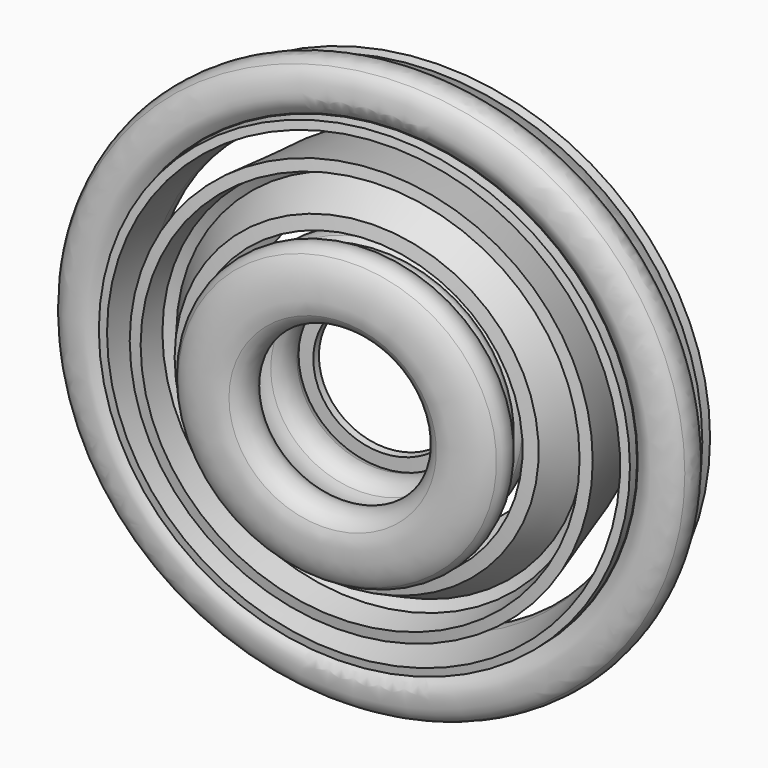
from build123d import *


with BuildPart() as f2:
    # F1 (on face) → F2 (revolve)
    with BuildSketch(Plane.XY):
        with BuildLine():
            Line((-32.5457147943, 22.5321445226), (-32.4359629158, 22.5321445226))
            Line((-32.4359629158, 22.5321445226), (-31.983785176, 20.3897878528))
            Line((-31.983785176, 20.3897878528), (-30.2936062459, 20.3897878528))
            Line((-30.2936062459, 20.3897878528), (-30.2936062459, 30.6537835374))
            add(Edge.make_bspline(
                [(-31.5908734507, 34.4797340246), (-30.2936062459, 33.2878286232), (-30.2936062459, 30.6537835374)],
                knots=[0, 0, 0, 1, 1, 1], degree=2))
            add(Edge.make_bspline(
                [(-35.5748666431, 35.671639426), (-32.8881406555, 35.671639426), (-31.5908734507, 34.4797340246)],
                knots=[0, 0, 0, 1, 1, 1], degree=2))
            add(Edge.make_bspline(
                [(-38.2330571423, 35.3292135648), (-36.9094494866, 35.671639426), (-35.5748666431, 35.671639426)],
                knots=[0, 0, 0, 1, 1, 1], degree=2))
            add(Edge.make_bspline(
                [(-40.6673538091, 34.385347409), (-39.5566647979, 34.9867877036), (-38.2330571423, 35.3292135648)],
                knots=[0, 0, 0, 1, 1, 1], degree=2))
            Line((-40.6673538091, 34.385347409), (-39.9649417862, 32.6424875772))
            add(Edge.make_bspline(
                [(-35.7153490477, 33.7926872647), (-37.5943012089, 33.7926872647), (-39.9649417862, 32.6424875772)],
                knots=[0, 0, 0, 1, 1, 1], degree=2))
            add(Edge.make_bspline(
                [(-33.2788573432, 32.9497928372), (-34.038340343, 33.7926872647), (-35.7153490477, 33.7926872647)],
                knots=[0, 0, 0, 1, 1, 1], degree=2))
            add(Edge.make_bspline(
                [(-32.5193743435, 30.3376981271), (-32.5193743435, 32.1068984097), (-33.2788573432, 32.9497928372)],
                knots=[0, 0, 0, 1, 1, 1], degree=2))
            Line((-32.5193743435, 30.3376981271), (-32.5193743435, 29.4026121216))
            Line((-32.5193743435, 29.4026121216), (-35.0700080016, 29.3192006939))
            add(Edge.make_bspline(
                [(-42.3531426641, 24.5471890133), (-42.3531426641, 29.0996969367), (-35.0700080016, 29.3192006939)],
                knots=[0, 0, 0, 1, 1, 1], degree=2))
            add(Edge.make_bspline(
                [(-41.0844109477, 21.2678028814), (-42.3531426641, 22.422392644), (-42.3531426641, 24.5471890133)],
                knots=[0, 0, 0, 1, 1, 1], degree=2))
            add(Edge.make_bspline(
                [(-37.5811309835, 20.1132131187), (-39.8156792313, 20.1132131187), (-41.0844109477, 21.2678028814)],
                knots=[0, 0, 0, 1, 1, 1], degree=2))
            add(Edge.make_bspline(
                [(-34.7868481549, 20.6158767226), (-35.9041222788, 20.1132131187), (-37.5811309835, 20.1132131187)],
                knots=[0, 0, 0, 1, 1, 1], degree=2))
            add(Edge.make_bspline(
                [(-32.5457147943, 22.5321445226), (-33.669574031, 21.1185403265), (-34.7868481549, 20.6158767226)],
                knots=[0, 0, 0, 1, 1, 1], degree=2))
        make_face()
        with BuildLine():
            add(Edge.make_bspline(
                [(-37.1289532438, 21.9965553551), (-34.9997667993, 21.9965553551), (-33.7859110223, 23.1621203056)],
                knots=[0, 0, 0, 1, 1, 1], degree=2))
            add(Edge.make_bspline(
                [(-39.2186290119, 22.6397013636), (-38.4723162376, 21.9965553551), (-37.1289532438, 21.9965553551)],
                knots=[0, 0, 0, 1, 1, 1], degree=2))
            add(Edge.make_bspline(
                [(-39.9649417862, 24.5208485624), (-39.9649417862, 23.2828473721), (-39.2186290119, 22.6397013636)],
                knots=[0, 0, 0, 1, 1, 1], degree=2))
            add(Edge.make_bspline(
                [(-38.7664512721, 26.8453933507), (-39.9649417862, 26.0968855388), (-39.9649417862, 24.5208485624)],
                knots=[0, 0, 0, 1, 1, 1], degree=2))
            add(Edge.make_bspline(
                [(-34.8505042445, 27.6904828158), (-37.5679607581, 27.5939011626), (-38.7664512721, 26.8453933507)],
                knots=[0, 0, 0, 1, 1, 1], degree=2))
            Line((-34.8505042445, 27.6904828158), (-32.5720552452, 27.7826743938))
            Line((-32.5720552452, 27.7826743938), (-32.5720552452, 26.4261411745))
            add(Edge.make_bspline(
                [(-33.7859110223, 23.1621203056), (-32.5720552452, 24.3276852561), (-32.5720552452, 26.4261411745)],
                knots=[0, 0, 0, 1, 1, 1], degree=2))
        make_face(mode=Mode.SUBTRACT)
        with BuildLine():
            add(Edge.make_bspline(
                [(-39.2186290119, 22.6397013636), (-38.4723162376, 21.9965553551), (-37.1289532438, 21.9965553551)],
                knots=[0, 0, 0, 1, 1, 1], degree=2))
            add(Edge.make_bspline(
                [(-37.1289532438, 21.9965553551), (-34.9997667993, 21.9965553551), (-33.7859110223, 23.1621203056)],
                knots=[0, 0, 0, 1, 1, 1], degree=2))
            add(Edge.make_bspline(
                [(-33.7859110223, 23.1621203056), (-32.5720552452, 24.3276852561), (-32.5720552452, 26.4261411745)],
                knots=[0, 0, 0, 1, 1, 1], degree=2))
            Line((-32.5720552452, 26.4261411745), (-32.5720552452, 27.7826743938))
            Line((-32.5720552452, 27.7826743938), (-34.8505042445, 27.6904828158))
            add(Edge.make_bspline(
                [(-34.8505042445, 27.6904828158), (-37.5679607581, 27.5939011626), (-38.7664512721, 26.8453933507)],
                knots=[0, 0, 0, 1, 1, 1], degree=2))
            add(Edge.make_bspline(
                [(-38.7664512721, 26.8453933507), (-39.9649417862, 26.0968855388), (-39.9649417862, 24.5208485624)],
                knots=[0, 0, 0, 1, 1, 1], degree=2))
            add(Edge.make_bspline(
                [(-39.9649417862, 24.5208485624), (-39.9649417862, 23.2828473721), (-39.2186290119, 22.6397013636)],
                knots=[0, 0, 0, 1, 1, 1], degree=2))
        make_face()
    revolve(axis=Axis((16.02832973, 31.0878250748, 0), (0.1629705241, -0.9866309382, 0)))


with BuildPart() as f2b:
    # F1 (on face) → F2, piece 2 (revolve)
    with BuildSketch(Plane.XY):
        with BuildLine():
            add(Edge.make_bspline(
                [(-23.3528974447, 28.0855895786), (-22.7646273755, 28.924093931), (-21.5573567111, 30.2806271502)],
                knots=[0, 0, 0, 1, 1, 1], degree=2))
            Line((-23.3528974447, 28.0855895786), (-23.4626493232, 28.0855895786))
            add(Edge.make_bspline(
                [(-23.3528974447, 30.4167194796), (-23.3528974447, 29.6660166302), (-23.4626493232, 28.0855895786)],
                knots=[0, 0, 0, 1, 1, 1], degree=2))
            Line((-23.3528974447, 30.4167194796), (-23.3528974447, 41.7387232737))
            Line((-23.3528974447, 41.7387232737), (-25.6050059931, 41.7387232737))
            Line((-25.6050059931, 41.7387232737), (-25.6050059931, 20.3897878528))
            Line((-25.6050059931, 20.3897878528), (-23.3528974447, 20.3897878528))
            Line((-23.3528974447, 20.3897878528), (-23.3528974447, 26.0134741111))
            Line((-23.3528974447, 26.0134741111), (-21.6407681388, 27.4973195095))
            Line((-21.6407681388, 27.4973195095), (-16.3287772157, 20.3897878528))
            Line((-16.3287772157, 20.3897878528), (-13.5718100258, 20.3897878528))
            Line((-13.5718100258, 20.3897878528), (-20.0910716133, 29.0206755841))
            Line((-20.0910716133, 29.0206755841), (-13.9976473147, 35.4257952179))
            Line((-13.9976473147, 35.4257952179), (-16.7019336028, 35.4257952179))
            Line((-16.7019336028, 35.4257952179), (-21.5573567111, 30.2806271502))
        make_face()
    revolve(axis=Axis((16.02832973, 31.0878250748, 0), (0.1629705241, -0.9866309382, 0)))


with BuildPart() as f2c:
    # F1 (on face) → F2, piece 3 (revolve)
    with BuildSketch(Plane.XY):
        with BuildLine():
            Line((-1.3366706019, 33.6565949353), (1.4466370388, 33.985850571))
            Line((1.4466370388, 33.985850571), (1.4466370388, 35.4257952179))
            Line((1.4466370388, 35.4257952179), (-3.7512119306, 35.4257952179))
            add(Edge.make_bspline(
                [(-5.8803983751, 35.702369952), (-4.6994681616, 35.702369952), (-3.7512119306, 35.4257952179)],
                knots=[0, 0, 0, 1, 1, 1], degree=2))
            add(Edge.make_bspline(
                [(-10.0751151743, 34.3633970333), (-8.5934648135, 35.702369952), (-5.8803983751, 35.702369952)],
                knots=[0, 0, 0, 1, 1, 1], degree=2))
            add(Edge.make_bspline(
                [(-11.5567655351, 30.5572018842), (-11.5567655351, 33.0244241147), (-10.0751151743, 34.3633970333)],
                knots=[0, 0, 0, 1, 1, 1], degree=2))
            add(Edge.make_bspline(
                [(-10.8236229862, 27.9209617608), (-11.5567655351, 29.0733564858), (-11.5567655351, 30.5572018842)],
                knots=[0, 0, 0, 1, 1, 1], degree=2))
            add(Edge.make_bspline(
                [(-8.9227204492, 26.2900488451), (-10.0904804373, 26.7685670357), (-10.8236229862, 27.9209617608)],
                knots=[0, 0, 0, 1, 1, 1], degree=2))
            add(Edge.make_bspline(
                [(-10.3099841945, 25.0959484062), (-9.8709766802, 25.7149490014), (-8.9227204492, 26.2900488451)],
                knots=[0, 0, 0, 1, 1, 1], degree=2))
            add(Edge.make_bspline(
                [(-10.7489917088, 23.6560037592), (-10.7489917088, 24.476947811), (-10.3099841945, 25.0959484062)],
                knots=[0, 0, 0, 1, 1, 1], degree=2))
            add(Edge.make_bspline(
                [(-10.358275021, 22.3784918926), (-10.7489917088, 22.9272512855), (-10.7489917088, 23.6560037592)],
                knots=[0, 0, 0, 1, 1, 1], degree=2))
            add(Edge.make_bspline(
                [(-9.3924584896, 21.5707180663), (-9.9675583333, 21.8297324997), (-10.358275021, 22.3784918926)],
                knots=[0, 0, 0, 1, 1, 1], degree=2))
            add(Edge.make_bspline(
                [(-11.85968072, 20.2119898095), (-10.9816656914, 21.2151219797), (-9.3924584896, 21.5707180663)],
                knots=[0, 0, 0, 1, 1, 1], degree=2))
            add(Edge.make_bspline(
                [(-12.7376957486, 17.8391541946), (-12.7376957486, 19.2088576393), (-11.85968072, 20.2119898095)],
                knots=[0, 0, 0, 1, 1, 1], degree=2))
            add(Edge.make_bspline(
                [(-11.1397083965, 14.7353710684), (-12.7376957486, 15.8328898542), (-12.7376957486, 17.8391541946)],
                knots=[0, 0, 0, 1, 1, 1], degree=2))
            add(Edge.make_bspline(
                [(-6.5915905482, 13.6378522827), (-9.5417210444, 13.6378522827), (-11.1397083965, 14.7353710684)],
                knots=[0, 0, 0, 1, 1, 1], degree=2))
            add(Edge.make_bspline(
                [(-0.7484005328, 14.9482897129), (-2.750274798, 13.6378522827), (-6.5915905482, 13.6378522827)],
                knots=[0, 0, 0, 1, 1, 1], degree=2))
            add(Edge.make_bspline(
                [(1.2534737325, 18.7566798995), (1.2534737325, 16.2587271431), (-0.7484005328, 14.9482897129)],
                knots=[0, 0, 0, 1, 1, 1], degree=2))
            add(Edge.make_bspline(
                [(-0.0547686601, 21.7485161096), (1.2534737325, 20.7190434885), (1.2534737325, 18.7566798995)],
                knots=[0, 0, 0, 1, 1, 1], degree=2))
            add(Edge.make_bspline(
                [(-3.8082829075, 22.7779887306), (-1.3630110528, 22.7779887306), (-0.0547686601, 21.7485161096)],
                knots=[0, 0, 0, 1, 1, 1], degree=2))
            Line((-3.8082829075, 22.7779887306), (-6.4686684442, 22.7779887306))
            add(Edge.make_bspline(
                [(-8.2093332385, 23.0721237652), (-7.7022795595, 22.7779887306), (-6.4686684442, 22.7779887306)],
                knots=[0, 0, 0, 1, 1, 1], degree=2))
            add(Edge.make_bspline(
                [(-8.7163869175, 23.985259395), (-8.7163869175, 23.3662587998), (-8.2093332385, 23.0721237652)],
                knots=[0, 0, 0, 1, 1, 1], degree=2))
            add(Edge.make_bspline(
                [(-7.2632720451, 25.9168924579), (-8.7163869175, 25.1486293079), (-8.7163869175, 23.985259395)],
                knots=[0, 0, 0, 1, 1, 1], degree=2))
            add(Edge.make_bspline(
                [(-6.0033204791, 25.8071405794), (-6.675001976, 25.8071405794), (-7.2632720451, 25.9168924579)],
                knots=[0, 0, 0, 1, 1, 1], degree=2))
            add(Edge.make_bspline(
                [(-1.859089544, 27.1241631223), (-3.3692753932, 25.8071405794), (-6.0033204791, 25.8071405794)],
                knots=[0, 0, 0, 1, 1, 1], degree=2))
            add(Edge.make_bspline(
                [(-0.3489036947, 30.6537835374), (-0.3489036947, 28.4411856652), (-1.859089544, 27.1241631223)],
                knots=[0, 0, 0, 1, 1, 1], degree=2))
            add(Edge.make_bspline(
                [(-0.6518188796, 32.4010334443), (-0.3489036947, 31.623990144), (-0.3489036947, 30.6537835374)],
                knots=[0, 0, 0, 1, 1, 1], degree=2))
            add(Edge.make_bspline(
                [(-1.3366706019, 33.6565949353), (-0.9547340645, 33.1780767447), (-0.6518188796, 32.4010334443)],
                knots=[0, 0, 0, 1, 1, 1], degree=2))
        make_face()
        with BuildLine():
            add(Edge.make_bspline(
                [(-10.542658177, 17.8654946455), (-10.542658177, 16.6450537557), (-9.513185556, 16.0128829351)],
                knots=[0, 0, 0, 1, 1, 1], degree=2))
            add(Edge.make_bspline(
                [(-9.6778133739, 19.9924860523), (-10.542658177, 19.2527583907), (-10.542658177, 17.8654946455)],
                knots=[0, 0, 0, 1, 1, 1], degree=2))
            add(Edge.make_bspline(
                [(-7.2632720451, 20.7322137139), (-8.8129685707, 20.7322137139), (-9.6778133739, 19.9924860523)],
                knots=[0, 0, 0, 1, 1, 1], degree=2))
            Line((-7.2632720451, 20.7322137139), (-4.5326453061, 20.7322137139))
            add(Edge.make_bspline(
                [(-1.6944617261, 20.2580855985), (-2.4473596131, 20.7322137139), (-4.5326453061, 20.7322137139)],
                knots=[0, 0, 0, 1, 1, 1], degree=2))
            add(Edge.make_bspline(
                [(-0.9415638391, 18.5635165932), (-0.9415638391, 19.783957483), (-1.6944617261, 20.2580855985)],
                knots=[0, 0, 0, 1, 1, 1], degree=2))
            add(Edge.make_bspline(
                [(-2.320047434, 16.2389718049), (-0.9415638391, 17.0972314954), (-0.9415638391, 18.5635165932)],
                knots=[0, 0, 0, 1, 1, 1], degree=2))
            add(Edge.make_bspline(
                [(-6.5652500974, 15.3807121145), (-3.6985310289, 15.3807121145), (-2.320047434, 16.2389718049)],
                knots=[0, 0, 0, 1, 1, 1], degree=2))
            add(Edge.make_bspline(
                [(-9.513185556, 16.0128829351), (-8.4837129349, 15.3807121145), (-6.5652500974, 15.3807121145)],
                knots=[0, 0, 0, 1, 1, 1], degree=2))
        make_face(mode=Mode.SUBTRACT)
        with BuildLine():
            add(Edge.make_bspline(
                [(-9.3090470618, 30.6098827859), (-9.3090470618, 29.0338458096), (-8.4178618078, 28.2238769457)],
                knots=[0, 0, 0, 1, 1, 1], degree=2))
            add(Edge.make_bspline(
                [(-8.4442022586, 33.1758817071), (-9.3090470618, 32.3132319415), (-9.3090470618, 30.6098827859)],
                knots=[0, 0, 0, 1, 1, 1], degree=2))
            add(Edge.make_bspline(
                [(-5.9725899531, 34.0385314727), (-7.5793574554, 34.0385314727), (-8.4442022586, 33.1758817071)],
                knots=[0, 0, 0, 1, 1, 1], degree=2))
            add(Edge.make_bspline(
                [(-2.6010122432, 30.6537835374), (-2.6010122432, 34.0385314727), (-5.9725899531, 34.0385314727)],
                knots=[0, 0, 0, 1, 1, 1], degree=2))
            add(Edge.make_bspline(
                [(-5.9330792768, 27.4139080818), (-2.6010122432, 27.4139080818), (-2.6010122432, 30.6537835374)],
                knots=[0, 0, 0, 1, 1, 1], degree=2))
            add(Edge.make_bspline(
                [(-8.4178618078, 28.2238769457), (-7.5266765537, 27.4139080818), (-5.9330792768, 27.4139080818)],
                knots=[0, 0, 0, 1, 1, 1], degree=2))
        make_face(mode=Mode.SUBTRACT)
    revolve(axis=Axis((16.02832973, 31.0878250748, 0), (0.1629705241, -0.9866309382, 0)))


solid = Compound([f2.part, f2b.part, f2c.part])
